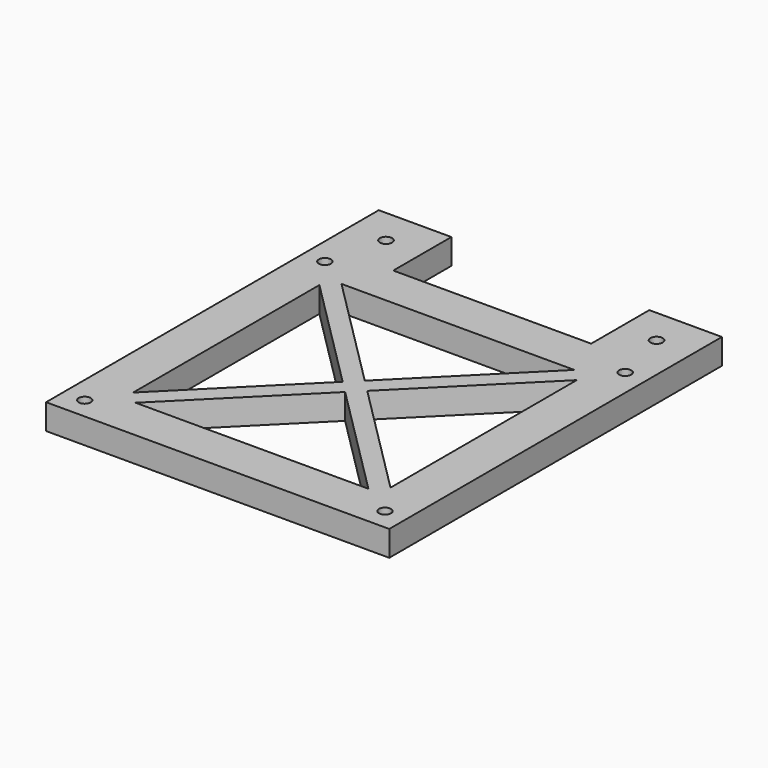
from build123d import *

# Parameters (mm, degrees)
SKETCH_W     = 120
SKETCH_H     = 120
SKETCH_R     = 2.1082
SKETCH_W_2   = 90
SKETCH_H_2   = 90
PAD_DEPTH    = 8.89
SKETCH001_W  = 25.4
SKETCH001_H  = 25.4
SKETCH001_R  = 2.1463
PAD001_DEPTH = 8.89
PAD002_DEPTH = 8.89


with BuildPart() as part:
    # Sketch → Pad (new body)
    with BuildSketch(Plane.XY):
        Rectangle(SKETCH_W, SKETCH_H)
        with Locations((-52.5, 52.5)):
            Circle(SKETCH_R, mode=Mode.SUBTRACT)
        with Locations((52.5, 52.5)):
            Circle(SKETCH_R, mode=Mode.SUBTRACT)
        with Locations((-52.5, -52.5)):
            Circle(SKETCH_R, mode=Mode.SUBTRACT)
        with Locations((52.5, -52.5)):
            Circle(SKETCH_R, mode=Mode.SUBTRACT)
        Rectangle(SKETCH_W_2, SKETCH_H_2, mode=Mode.SUBTRACT)
    extrude(amount=PAD_DEPTH)

    # Sketch001 (on Face13 of Pad) → Pad001 (join)
    with BuildSketch(Plane(origin=(0, 0, 0), x_dir=(1, 0, 0), z_dir=(0, 0, -1))):
        with Locations((-47.3, -72.7)):
            Rectangle(SKETCH001_W, SKETCH001_H)
        with Locations((-47.3, -72.7)):
            Circle(SKETCH001_R, mode=Mode.SUBTRACT)
        with Locations((47.3, -72.7)):
            Rectangle(SKETCH001_W, SKETCH001_H)
        with Locations((47.3, -72.7)):
            Circle(SKETCH001_R, mode=Mode.SUBTRACT)
    extrude(amount=-PAD001_DEPTH)

    # Sketch002 (on Face2 of Pad001) → Pad002 (join)
    with BuildSketch(Plane(origin=(0, 0, 0), x_dir=(1, 0, 0), z_dir=(0, 0, -1))):
        Polygon((-45, 45), (-40.7074, 45), (0, 4.2926), (40.7074, 45), (45, 45), (45, 40.7074), (4.2926, 0), (45, -40.7074), (45, -45), (40.7074, -45), (0, -4.2926), (-40.7074, -45), (-45, -45), (-45, -40.7074), (-4.2926, 0), (-45, 40.7074), align=None)
    extrude(amount=-PAD002_DEPTH)


solid = part.part
